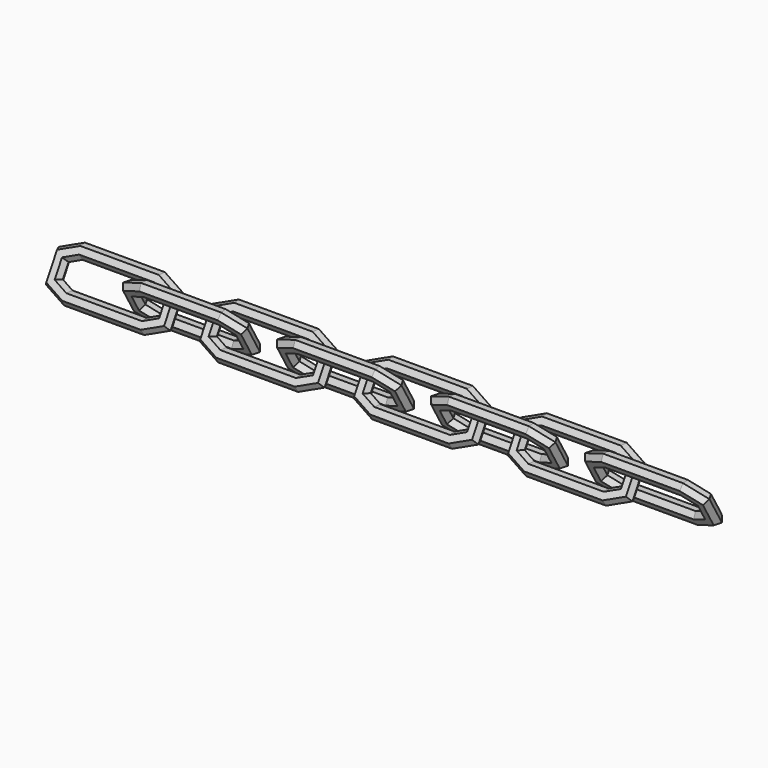
from build123d import *

# Parameters (mm, degrees)
F3_ANGLE = 60


with BuildPart() as f2:
    # F2: sweep along a path in F1
    with BuildLine(Plane.XY) as f2_path:
        Line((-83.2810721596, 5), (-63.2810721596, 5))
        Line((-63.2810721596, 5), (-58.8490576928, 2.9527648483))
        Line((-58.8490576928, 2.9527648483), (-58.8490576928, -2.9527648483))
        Line((-58.8490576928, -2.9527648483), (-63.2810721596, -5))
        Line((-63.2810721596, -5), (-83.2810721596, -5))
        Line((-83.2810721596, -5), (-87.7130866263, -2.9527648483))
        Line((-87.7130866263, -2.9527648483), (-87.7130866263, 2.9527648483))
        Line((-87.7130866263, 2.9527648483), (-83.2810721596, 5))
    # F0 (on Front) → F2 (sweep)
    with BuildSketch(Plane.XZ):
        Polygon((-57.1170068852, 0), (-57.983032289, 1.5), (-59.7150830966, 1.5), (-60.5811085003, 0), (-59.7150830966, -1.5), (-57.983032289, -1.5), align=None)
    sweep(path=f2_path.line, transition=Transition.RIGHT)


with BuildPart() as f2_1:
    # F3: moved
    add(f2.part.rotate(Axis((-66.0650649262, 0, 0), (1, 0, 0)), F3_ANGLE))


with BuildPart() as f4_1:
    # F4: instance of F2
    add(f2_1.part.mirror(Plane.XZ))


with BuildPart() as f4_1_1:
    # F5: moved
    add(f4_1.part.moved(Location((20, 0, 0))))


with BuildPart() as f6_1:
    # F6: copy of F2
    add(f2_1.part.moved(Location((40, 0, 0))))


with BuildPart() as f6_2:
    # F6: copy of F4_1
    add(f4_1_1.part.moved(Location((40, 0, 0))))


with BuildPart() as f7_1:
    # F7: copy of F2
    add(f2_1.part.moved(Location((80, 0, 0))))


with BuildPart() as f7_2:
    # F7: copy of F4_1
    add(f4_1_1.part.moved(Location((80, 0, 0))))


with BuildPart() as f7_3:
    # F7: copy of F6_1
    add(f6_1.part.moved(Location((80, 0, 0))))


with BuildPart() as f7_4:
    # F7: copy of F6_2
    add(f6_2.part.moved(Location((80, 0, 0))))


solid = Compound([f2_1.part, f4_1_1.part, f6_1.part, f6_2.part, f7_1.part, f7_2.part, f7_3.part, f7_4.part])
